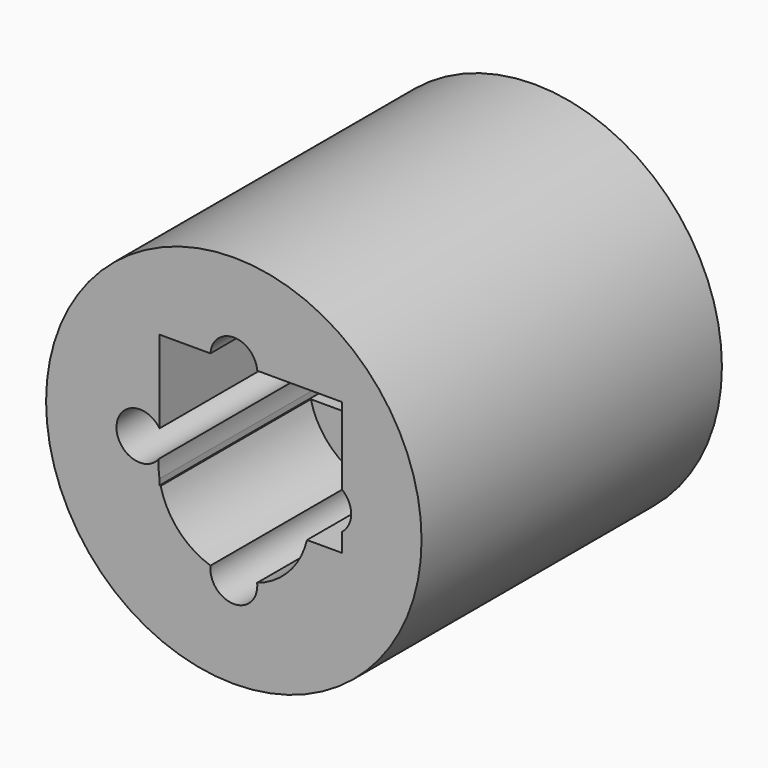
from build123d import *

# Parameters (mm, degrees)
F0_R     = 25.4
F1_DEPTH = 50.8
F2_R     = 3.175
F3_DEPTH = 50.8
F4_R     = 10.183326
F5_DEPTH = 25.4
F6_W     = 24.701291
F6_H     = 17.974584
F7_DEPTH = 50.8


with BuildPart() as f1:
    # F0 (on Front) → F1 (new body)
    with BuildSketch(Plane.XZ):
        Circle(F0_R)
    extrude(amount=F1_DEPTH)

    # F2 (on face) → F3 (cut, through all)
    with BuildSketch(Plane.XZ.offset(50.8)):
        with Locations((0, 12.7)):
            Circle(F2_R)
        with Locations((12.7, 0)):
            Circle(F2_R)
        with Locations((0, -12.7)):
            Circle(F2_R)
        with Locations((-12.7, 0)):
            Circle(F2_R)
    extrude(amount=-F3_DEPTH, mode=Mode.SUBTRACT)

    # F4 (on face) → F5 (cut)
    with BuildSketch(Plane.XZ.offset(50.8)):
        with Locations((0, -2.647925)):
            Circle(F4_R)
    extrude(amount=-F5_DEPTH, mode=Mode.SUBTRACT)

    # F6 (on face) → F7 (cut)
    with BuildSketch(Plane.XZ.offset(50.8)):
        with Locations((2.291639, 3.951871)):
            Rectangle(F6_W, F6_H)
    extrude(amount=-F7_DEPTH, mode=Mode.SUBTRACT)


solid = f1.part
